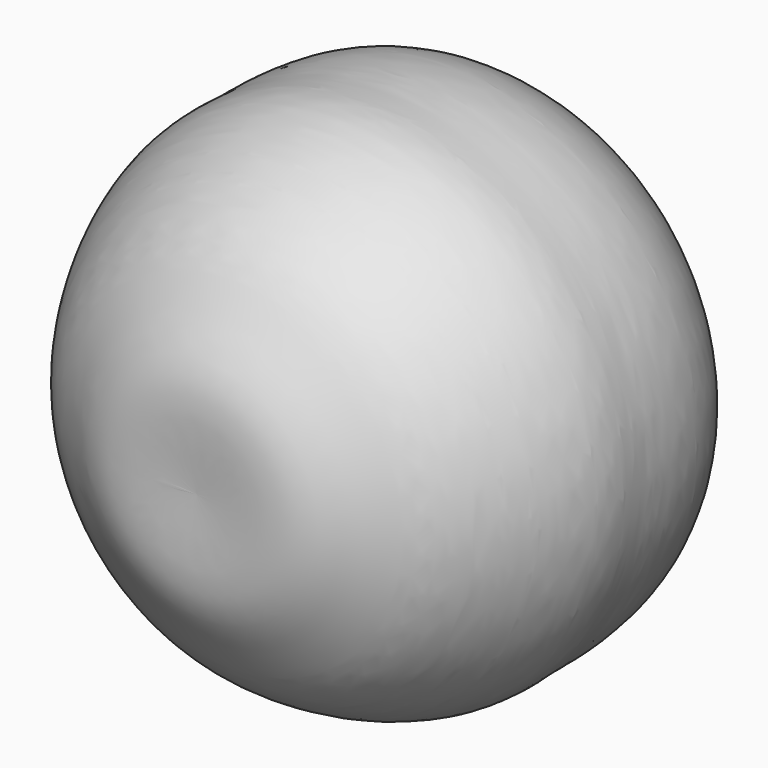
from build123d import *


with BuildPart() as f1:
    # F0 (on Top) → F1 (revolve)
    with BuildSketch(Plane.XY):
        with BuildLine():
            Line((0, -51.9505664706), (0, 63.2852315903))
            add(Edge.make_bspline(
                [(0, 63.2852315903), (-12.9893881363, 62.5038433178), (-37.6207117356, 61.022361523), (-62.1456975541, 38.7223184894), (-65.8464815635, 19.1566102159), (-65.5621630798, 7.1647149035), (-66.3337662565, -2.8906607238), (-63.3418399693, -13.7556068003), (-58.0847329377, -24.5862338405), (-49.054499457, -37.7332641729), (-36.1619732378, -45.4198783746), (-23.2114516334, -54.2556877736), (-8.3459709155, -52.138199707), (0, -51.9505664706)],
                knots=[0, 0, 0, 0, 0.1338518911, 0.2545000725, 0.3494025438, 0.4241482558, 0.4925833984, 0.564686468, 0.6408482723, 0.7272048006, 0.8114578051, 0.8951767989, 1, 1, 1, 1], degree=3))
        make_face()
    revolve(axis=Axis((0, 5.6673325598, 0), (0, -1, 0)))


solid = f1.part
